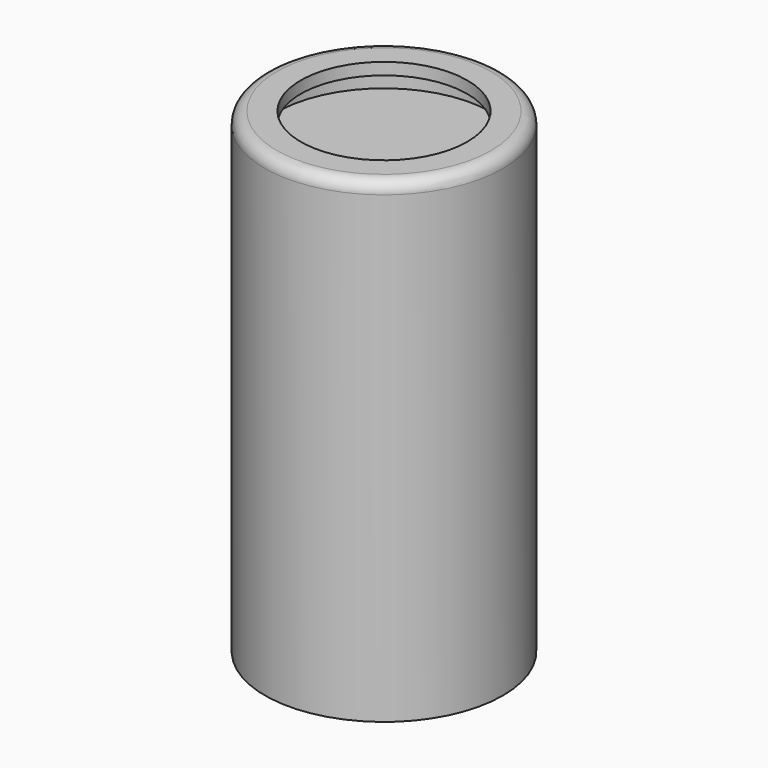
from build123d import *

# Parameters (mm, degrees)
SKETCH028_R     = 5
PAD016_DEPTH    = 20
SKETCH029_R     = 3.5
POCKET013_DEPTH = 0.5
SKETCH032_R     = 4.5
POCKET015_DEPTH = 1
FILLET002_R     = 0.5


with BuildPart() as part:
    # Sketch028 → Pad016 (new body)
    with BuildSketch(Plane.XY):
        Circle(SKETCH028_R)
    extrude(amount=PAD016_DEPTH)

    # Sketch029 (on Face3 of Pad016) → Pocket013 (cut)
    with BuildSketch(Plane.XY.offset(20)):
        Circle(SKETCH029_R)
    extrude(amount=-POCKET013_DEPTH, mode=Mode.SUBTRACT)

    # Sketch032 (on Face5 of Pocket013) → Pocket015 (cut)
    with BuildSketch(Plane.XY.offset(19.5)):
        Circle(SKETCH032_R)
    extrude(amount=-POCKET015_DEPTH, mode=Mode.SUBTRACT)

    # Fillet002
    fillet002_edges = [part.edges().sort_by_distance(p)[0] for p in [
        (-5, 0, 20),
    ]]
    fillet(fillet002_edges, radius=FILLET002_R)


solid = part.part
